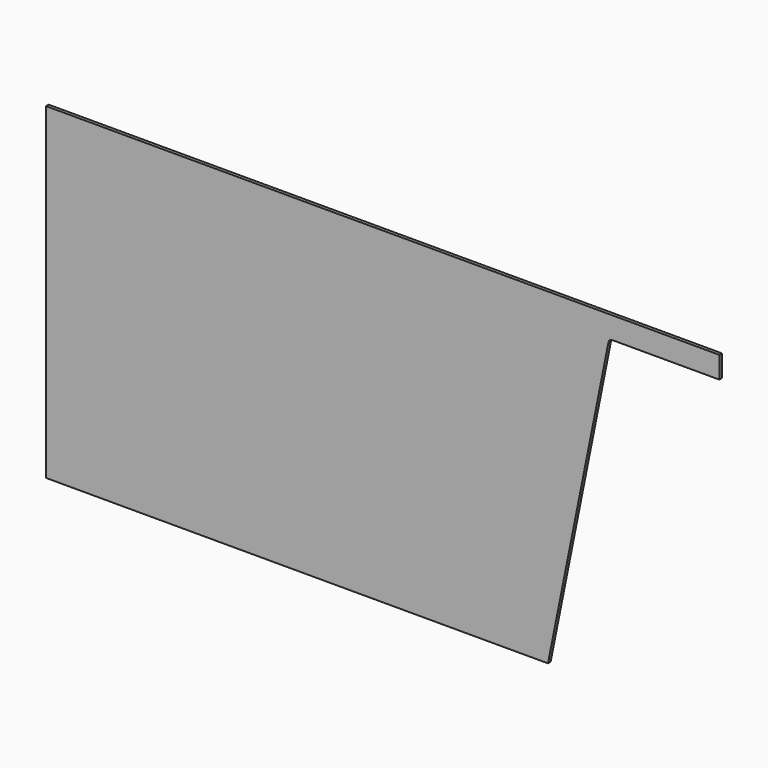
from build123d import *

# Parameters (mm, degrees)
F1_DEPTH = 9


with BuildPart() as f1:
    # F0 (on Front) → F1 (new body)
    with BuildSketch(Plane.XZ):
        with BuildLine():
            Line((1851, 900), (0, 900))
            Line((0, 900), (0, 0))
            Line((0, 0), (1380, 0))
            Line((1380, 0), (1546.392232, 831.961161))
            ThreePointArc((1546.392232, 831.961161), (1549.85815, 837.733421), (1556.198039, 840))
            Line((1556.198039, 840), (1851, 840))
            Line((1851, 840), (1851, 900))
        make_face()
    extrude(amount=F1_DEPTH)


solid = f1.part
